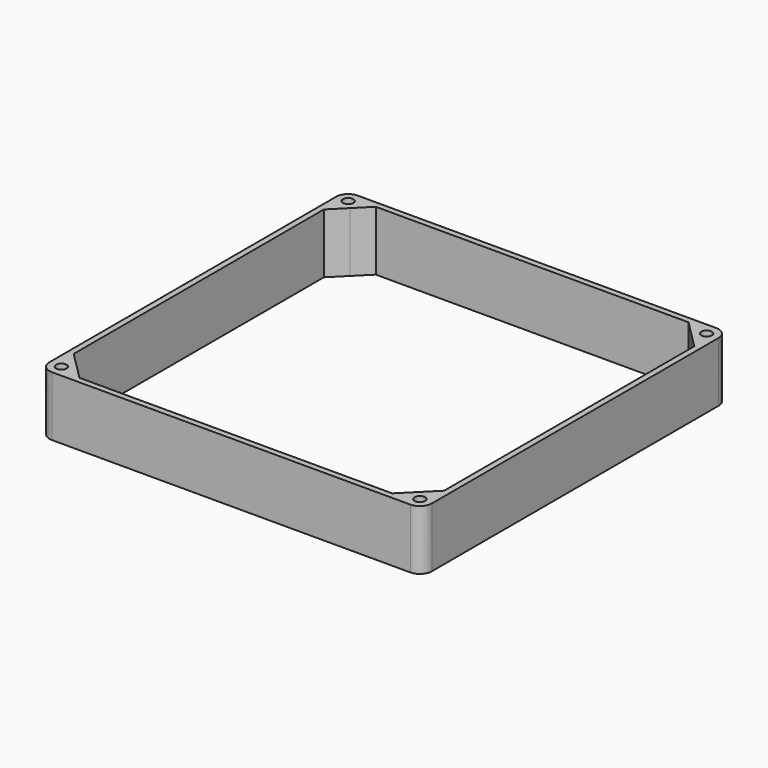
from build123d import *

# Parameters (mm, degrees)
F0_R     = 3
F0_R_2   = 1.75
F1_DEPTH = 20
F2_DEPTH = 18


with BuildPart() as f1:
    # F0 (on Top) → F1 (new body)
    with BuildSketch(Plane.XY):
        with BuildLine():
            Line((-62, 52.3431457505), (-62, 56.5358983849))
            ThreePointArc((-62, 56.5358983849), (-63.4641016151, 58), (-64, 60))
            Line((-64, 60), (-64, -60))
            ThreePointArc((-64, -60), (-63.4641016151, -58), (-62, -56.5358983849))
            Line((-62, -56.5358983849), (-62, -52.3431457505))
            Line((-62, -52.3431457505), (-62, 52.3431457505))
        make_face()
        with BuildLine():
            ThreePointArc((-56.5358983849, -62), (-58, -63.4641016151), (-60, -64))
            Line((-60, -64), (60, -64))
            ThreePointArc((60, -64), (58, -63.4641016151), (56.5358983849, -62))
            Line((56.5358983849, -62), (52.3431457505, -62))
            Line((52.3431457505, -62), (-52.3431457505, -62))
            Line((-52.3431457505, -62), (-56.5358983849, -62))
        make_face()
        with BuildLine():
            Line((64, -60), (64, 60))
            ThreePointArc((64, 60), (63.4641016151, 58), (62, 56.5358983849))
            Line((62, 56.5358983849), (62, 52.3431457505))
            Line((62, 52.3431457505), (62, -52.3431457505))
            Line((62, -52.3431457505), (62, -56.5358983849))
            ThreePointArc((62, -56.5358983849), (63.4641016151, -58), (64, -60))
        make_face()
        with BuildLine():
            ThreePointArc((-62, -56.5358983849), (-63.4641016151, -58), (-64, -60))
            ThreePointArc((-64, -60), (-62.8284271247, -62.8284271247), (-60, -64))
            ThreePointArc((-60, -64), (-58, -63.4641016151), (-56.5358983849, -62))
            ThreePointArc((-56.5358983849, -62), (-56.1362966948, -61.0352761804), (-56, -60))
            ThreePointArc((-56, -60), (-56.30448187, -58.4692662705), (-57.1715728753, -57.1715728753))
            ThreePointArc((-57.1715728753, -57.1715728753), (-59.4778952311, -56.0342205545), (-62, -56.5358983849))
        make_face()
        with Locations((-60, -60)):
            Circle(F0_R, mode=Mode.SUBTRACT)
        with Locations((-60, -60)):
            Circle(F0_R)
        with Locations((-60, -60)):
            Circle(F0_R_2, mode=Mode.SUBTRACT)
        with BuildLine():
            ThreePointArc((60, -64), (62.8284271247, -62.8284271247), (64, -60))
            ThreePointArc((64, -60), (63.4641016151, -58), (62, -56.5358983849))
            ThreePointArc((62, -56.5358983849), (59.4778952311, -56.0342205545), (57.1715728753, -57.1715728753))
            ThreePointArc((57.1715728753, -57.1715728753), (56.0342205545, -59.4778952311), (56.5358983849, -62))
            ThreePointArc((56.5358983849, -62), (58, -63.4641016151), (60, -64))
        make_face()
        with Locations((60, -60)):
            Circle(F0_R, mode=Mode.SUBTRACT)
        with Locations((60, -60)):
            Circle(F0_R)
        with Locations((60, -60)):
            Circle(F0_R_2, mode=Mode.SUBTRACT)
        with BuildLine():
            ThreePointArc((-60, 64), (-58, 63.4641016151), (-56.5358983849, 62))
            Line((-56.5358983849, 62), (-52.3431457505, 62))
            Line((-52.3431457505, 62), (52.3431457505, 62))
            Line((52.3431457505, 62), (56.5358983849, 62))
            ThreePointArc((56.5358983849, 62), (58, 63.4641016151), (60, 64))
            Line((60, 64), (-60, 64))
        make_face()
        with BuildLine():
            ThreePointArc((-57.1715728753, 57.1715728753), (-56.30448187, 58.4692662705), (-56, 60))
            ThreePointArc((-56, 60), (-56.1362966948, 61.0352761804), (-56.5358983849, 62))
            ThreePointArc((-56.5358983849, 62), (-58, 63.4641016151), (-60, 64))
            ThreePointArc((-60, 64), (-62.8284271247, 62.8284271247), (-64, 60))
            ThreePointArc((-64, 60), (-63.4641016151, 58), (-62, 56.5358983849))
            ThreePointArc((-62, 56.5358983849), (-59.4778952311, 56.0342205545), (-57.1715728753, 57.1715728753))
        make_face()
        with Locations((-60, 60)):
            Circle(F0_R, mode=Mode.SUBTRACT)
        with Locations((-60, 60)):
            Circle(F0_R)
        with Locations((-60, 60)):
            Circle(F0_R_2, mode=Mode.SUBTRACT)
        with BuildLine():
            ThreePointArc((64, 60), (62.8284271247, 62.8284271247), (60, 64))
            ThreePointArc((60, 64), (58, 63.4641016151), (56.5358983849, 62))
            ThreePointArc((56.5358983849, 62), (56.0342205545, 59.4778952311), (57.1715728753, 57.1715728753))
            ThreePointArc((57.1715728753, 57.1715728753), (59.4778952311, 56.0342205545), (62, 56.5358983849))
            ThreePointArc((62, 56.5358983849), (63.4641016151, 58), (64, 60))
        make_face()
        with Locations((60, 60)):
            Circle(F0_R, mode=Mode.SUBTRACT)
        with Locations((60, 60)):
            Circle(F0_R)
        with Locations((60, 60)):
            Circle(F0_R_2, mode=Mode.SUBTRACT)
        with BuildLine():
            Line((56.5358983849, 62), (52.3431457505, 62))
            Line((52.3431457505, 62), (57.1715728753, 57.1715728753))
            ThreePointArc((57.1715728753, 57.1715728753), (56.0342205545, 59.4778952311), (56.5358983849, 62))
        make_face()
        with BuildLine():
            ThreePointArc((62, 56.5358983849), (59.4778952311, 56.0342205545), (57.1715728753, 57.1715728753))
            Line((57.1715728753, 57.1715728753), (62, 52.3431457505))
            Line((62, 52.3431457505), (62, 56.5358983849))
        make_face()
        with BuildLine():
            ThreePointArc((-56.5358983849, 62), (-56.1362966948, 61.0352761804), (-56, 60))
            ThreePointArc((-56, 60), (-56.30448187, 58.4692662705), (-57.1715728753, 57.1715728753))
            Line((-57.1715728753, 57.1715728753), (-52.3431457505, 62))
            Line((-52.3431457505, 62), (-56.5358983849, 62))
        make_face()
        with BuildLine():
            Line((-62, 52.3431457505), (-57.1715728753, 57.1715728753))
            ThreePointArc((-57.1715728753, 57.1715728753), (-59.4778952311, 56.0342205545), (-62, 56.5358983849))
            Line((-62, 56.5358983849), (-62, 52.3431457505))
        make_face()
        with BuildLine():
            ThreePointArc((57.1715728753, -57.1715728753), (59.4778952311, -56.0342205545), (62, -56.5358983849))
            Line((62, -56.5358983849), (62, -52.3431457505))
            Line((62, -52.3431457505), (57.1715728753, -57.1715728753))
        make_face()
        with BuildLine():
            Line((57.1715728753, -57.1715728753), (52.3431457505, -62))
            Line((52.3431457505, -62), (56.5358983849, -62))
            ThreePointArc((56.5358983849, -62), (56.0342205545, -59.4778952311), (57.1715728753, -57.1715728753))
        make_face()
        with BuildLine():
            Line((-52.3431457505, -62), (-57.1715728753, -57.1715728753))
            ThreePointArc((-57.1715728753, -57.1715728753), (-56.30448187, -58.4692662705), (-56, -60))
            ThreePointArc((-56, -60), (-56.1362966948, -61.0352761804), (-56.5358983849, -62))
            Line((-56.5358983849, -62), (-52.3431457505, -62))
        make_face()
        with BuildLine():
            Line((-57.1715728753, -57.1715728753), (-62, -52.3431457505))
            Line((-62, -52.3431457505), (-62, -56.5358983849))
            ThreePointArc((-62, -56.5358983849), (-59.4778952311, -56.0342205545), (-57.1715728753, -57.1715728753))
        make_face()
    extrude(amount=F1_DEPTH)

    # F0 (on Top) → F2 (cut)
    with BuildSketch(Plane.XY):
        with Locations((60, -60)):
            Circle(F0_R)
        with Locations((60, -60)):
            Circle(F0_R_2, mode=Mode.SUBTRACT)
        with Locations((-60, -60)):
            Circle(F0_R)
        with Locations((-60, -60)):
            Circle(F0_R_2, mode=Mode.SUBTRACT)
        with Locations((-60, 60)):
            Circle(F0_R)
        with Locations((-60, 60)):
            Circle(F0_R_2, mode=Mode.SUBTRACT)
        with Locations((60, 60)):
            Circle(F0_R)
        with Locations((60, 60)):
            Circle(F0_R_2, mode=Mode.SUBTRACT)
    extrude(amount=F2_DEPTH, mode=Mode.SUBTRACT)


solid = f1.part
